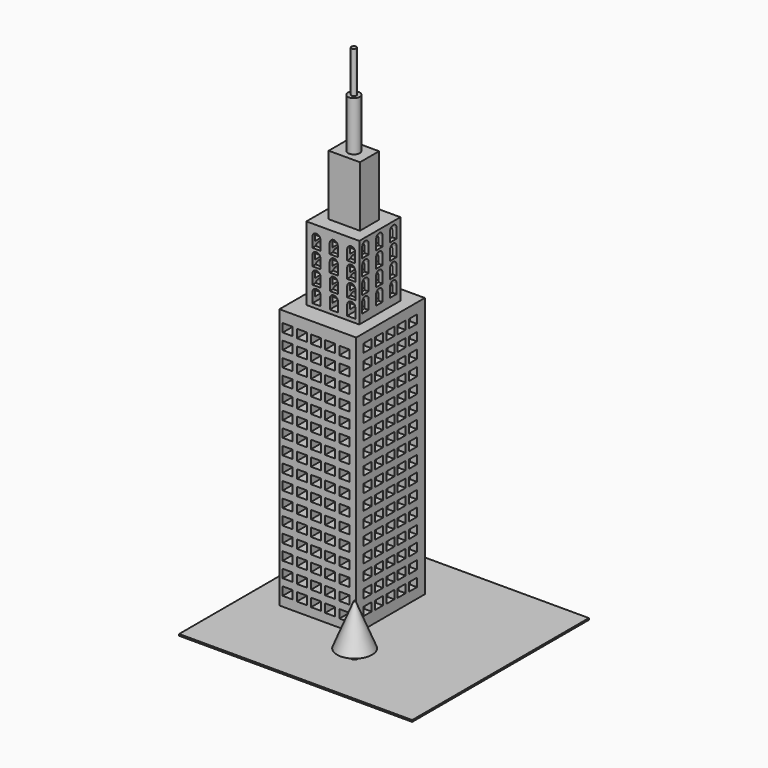
from build123d import *

# Parameters (mm, degrees)
F0_W      = 140.2568817139
F0_H      = 132.922179997
F1_DEPTH  = 1
F2_W      = 46.1832126603
F2_H      = 51.6020301729
F3_DEPTH  = 157
F4_W      = 31.817398034
F4_H      = 30.9539996088
F5_DEPTH  = 44.3
F6_W      = 18.8158005476
F6_H      = 14.3754296005
F7_DEPTH  = 36.3
F8_R      = 3.5628064539
F9_DEPTH  = 29.8
F10_R     = 1.4690776592
F11_DEPTH = 25
F12_W     = 5.9528779238
F12_H     = 5.0370548852
F13_DEPTH = 103.6402338574
F14_W     = 5.9528779238
F14_H     = 5.0370548852
F15_DEPTH = 121.5073966811
F17_DEPTH = 69.6478502283
F19_DEPTH = 114.2883801291
F20_R     = 1.9693223459
F21_DEPTH = 5
F22_R     = 10.5535773534
F23_DEPTH = 25
F23_TAPER = 22


with BuildPart() as f1:
    # F0 (on Top) → F1 (new body)
    with BuildSketch(Plane.XY):
        with Locations((-1.2246519327, 3.1857602298)):
            Rectangle(F0_W, F0_H)
    extrude(amount=F1_DEPTH)

    # F2 (on face) → F3 (join)
    with BuildSketch(Plane.XY.offset(1)):
        with Locations((-29.5110014267, 14.5628890023)):
            Rectangle(F2_W, F2_H)
    extrude(amount=F3_DEPTH)

    # F4 (on face) → F5 (join)
    with BuildSketch(Plane.XY.offset(158)):
        with Locations((-29.4748921879, 15.4769998044)):
            Rectangle(F4_W, F4_H)
    extrude(amount=F5_DEPTH)

    # F6 (on face) → F7 (join)
    with BuildSketch(Plane.XY.offset(202.3)):
        with Locations((-29.1762724519, 15.460183844)):
            Rectangle(F6_W, F6_H)
    extrude(amount=F7_DEPTH)

    # F8 (on face) → F9 (join)
    with BuildSketch(Plane.XY.offset(238.6)):
        with Locations((-29.1762724519, 15.460183844)):
            Circle(F8_R)
    extrude(amount=F9_DEPTH)

    # F10 (on face) → F11 (join)
    with BuildSketch(Plane.XY.offset(268.4)):
        with Locations((-29.1762724519, 15.460183844)):
            Circle(F10_R)
    extrude(amount=F11_DEPTH)

    # F12 (on face) → F13 (cut, through all)
    with BuildSketch(Plane(origin=(0, 40.3639040887, 0), x_dir=(-1, 0, 0), z_dir=(0, 1, 0))):
        with Locations((13.5474717245, 8.346992312)):
            Rectangle(F12_W, F12_H)
        with Locations((13.5474717245, 17.646992312)):
            Rectangle(F12_W, F12_H)
        with Locations((13.5474717245, 26.946992312)):
            Rectangle(F12_W, F12_H)
        with Locations((13.5474717245, 36.246992312)):
            Rectangle(F12_W, F12_H)
        with Locations((13.5474717245, 45.546992312)):
            Rectangle(F12_W, F12_H)
        with Locations((13.5474717245, 54.846992312)):
            Rectangle(F12_W, F12_H)
        with Locations((13.5474717245, 64.146992312)):
            Rectangle(F12_W, F12_H)
        with Locations((13.5474717245, 73.446992312)):
            Rectangle(F12_W, F12_H)
        with Locations((13.5474717245, 82.746992312)):
            Rectangle(F12_W, F12_H)
        with Locations((13.5474717245, 92.046992312)):
            Rectangle(F12_W, F12_H)
        with Locations((22.0764389619, 8.5814725574)):
            Rectangle(F12_W, F12_H)
        with Locations((22.0764389619, 17.8814725574)):
            Rectangle(F12_W, F12_H)
        with Locations((22.0764389619, 27.1814725574)):
            Rectangle(F12_W, F12_H)
        with Locations((22.0764389619, 36.4814725574)):
            Rectangle(F12_W, F12_H)
        with Locations((22.0764389619, 45.7814725574)):
            Rectangle(F12_W, F12_H)
        with Locations((22.0764389619, 55.0814725574)):
            Rectangle(F12_W, F12_H)
        with Locations((22.0764389619, 64.3814725574)):
            Rectangle(F12_W, F12_H)
        with Locations((22.0764389619, 73.6814725574)):
            Rectangle(F12_W, F12_H)
        with Locations((22.0764389619, 82.9814725574)):
            Rectangle(F12_W, F12_H)
        with Locations((22.0764389619, 92.2814725574)):
            Rectangle(F12_W, F12_H)
        with Locations((30.6054061994, 8.8159528028)):
            Rectangle(F12_W, F12_H)
        with Locations((30.6054061994, 18.1159528028)):
            Rectangle(F12_W, F12_H)
        with Locations((30.6054061994, 27.4159528028)):
            Rectangle(F12_W, F12_H)
        with Locations((30.6054061994, 36.7159528028)):
            Rectangle(F12_W, F12_H)
        with Locations((30.6054061994, 46.0159528028)):
            Rectangle(F12_W, F12_H)
        with Locations((30.6054061994, 55.3159528028)):
            Rectangle(F12_W, F12_H)
        with Locations((30.6054061994, 64.6159528028)):
            Rectangle(F12_W, F12_H)
        with Locations((30.6054061994, 73.9159528028)):
            Rectangle(F12_W, F12_H)
        with Locations((30.6054061994, 83.2159528028)):
            Rectangle(F12_W, F12_H)
        with Locations((30.6054061994, 92.5159528028)):
            Rectangle(F12_W, F12_H)
        with Locations((39.1343734369, 9.0504330482)):
            Rectangle(F12_W, F12_H)
        with Locations((39.1343734369, 18.3504330482)):
            Rectangle(F12_W, F12_H)
        with Locations((39.1343734369, 27.6504330482)):
            Rectangle(F12_W, F12_H)
        with Locations((39.1343734369, 36.9504330482)):
            Rectangle(F12_W, F12_H)
        with Locations((39.1343734369, 46.2504330482)):
            Rectangle(F12_W, F12_H)
        with Locations((39.1343734369, 55.5504330482)):
            Rectangle(F12_W, F12_H)
        with Locations((39.1343734369, 64.8504330482)):
            Rectangle(F12_W, F12_H)
        with Locations((39.1343734369, 74.1504330482)):
            Rectangle(F12_W, F12_H)
        with Locations((39.1343734369, 83.4504330482)):
            Rectangle(F12_W, F12_H)
        with Locations((39.1343734369, 92.7504330482)):
            Rectangle(F12_W, F12_H)
        with Locations((47.6633406743, 9.2849132936)):
            Rectangle(F12_W, F12_H)
        with Locations((47.6633406743, 18.5849132936)):
            Rectangle(F12_W, F12_H)
        with Locations((47.6633406743, 27.8849132936)):
            Rectangle(F12_W, F12_H)
        with Locations((47.6633406743, 37.1849132936)):
            Rectangle(F12_W, F12_H)
        with Locations((47.6633406743, 46.4849132936)):
            Rectangle(F12_W, F12_H)
        with Locations((47.6633406743, 55.7849132936)):
            Rectangle(F12_W, F12_H)
        with Locations((47.6633406743, 65.0849132936)):
            Rectangle(F12_W, F12_H)
        with Locations((47.6633406743, 74.3849132936)):
            Rectangle(F12_W, F12_H)
        with Locations((47.6633406743, 83.6849132936)):
            Rectangle(F12_W, F12_H)
        with Locations((47.6633406743, 92.9849132936)):
            Rectangle(F12_W, F12_H)
        with Locations((13.5474717245, 101.346992312)):
            Rectangle(F12_W, F12_H)
        with Locations((13.5474717245, 110.646992312)):
            Rectangle(F12_W, F12_H)
        with Locations((13.5474717245, 119.946992312)):
            Rectangle(F12_W, F12_H)
        with Locations((13.5474717245, 129.246992312)):
            Rectangle(F12_W, F12_H)
        with Locations((13.5474717245, 138.546992312)):
            Rectangle(F12_W, F12_H)
        with Locations((22.0764389619, 101.5814725574)):
            Rectangle(F12_W, F12_H)
        with Locations((22.0764389619, 110.8814725574)):
            Rectangle(F12_W, F12_H)
        with Locations((22.0764389619, 120.1814725574)):
            Rectangle(F12_W, F12_H)
        with Locations((22.0764389619, 129.4814725574)):
            Rectangle(F12_W, F12_H)
        with Locations((22.0764389619, 138.7814725574)):
            Rectangle(F12_W, F12_H)
        with Locations((30.6054061994, 101.8159528028)):
            Rectangle(F12_W, F12_H)
        with Locations((30.6054061994, 111.1159528028)):
            Rectangle(F12_W, F12_H)
        with Locations((30.6054061994, 120.4159528028)):
            Rectangle(F12_W, F12_H)
        with Locations((30.6054061994, 129.7159528028)):
            Rectangle(F12_W, F12_H)
        with Locations((30.6054061994, 139.0159528028)):
            Rectangle(F12_W, F12_H)
        with Locations((39.1343734369, 102.0504330482)):
            Rectangle(F12_W, F12_H)
        with Locations((39.1343734369, 111.3504330482)):
            Rectangle(F12_W, F12_H)
        with Locations((39.1343734369, 120.6504330482)):
            Rectangle(F12_W, F12_H)
        with Locations((39.1343734369, 129.9504330482)):
            Rectangle(F12_W, F12_H)
        with Locations((39.1343734369, 139.2504330482)):
            Rectangle(F12_W, F12_H)
        with Locations((47.6633406743, 102.2849132936)):
            Rectangle(F12_W, F12_H)
        with Locations((47.6633406743, 111.5849132936)):
            Rectangle(F12_W, F12_H)
        with Locations((47.6633406743, 120.8849132936)):
            Rectangle(F12_W, F12_H)
        with Locations((47.6633406743, 130.1849132936)):
            Rectangle(F12_W, F12_H)
        with Locations((47.6633406743, 139.4849132936)):
            Rectangle(F12_W, F12_H)
        with Locations((13.5474717245, 147.846992312)):
            Rectangle(F12_W, F12_H)
        with Locations((22.0764389619, 148.0814725574)):
            Rectangle(F12_W, F12_H)
        with Locations((30.6054061994, 148.3159528028)):
            Rectangle(F12_W, F12_H)
        with Locations((39.1343734369, 148.5504330482)):
            Rectangle(F12_W, F12_H)
        with Locations((47.6633406743, 148.7849132936)):
            Rectangle(F12_W, F12_H)
    extrude(amount=-F13_DEPTH, mode=Mode.SUBTRACT)

    # F14 (on face) → F15 (cut, through all)
    with BuildSketch(Plane(origin=(-52.6026077569, 0, 0), x_dir=(0, -1, 0), z_dir=(-1, 0, 0))):
        with Locations((-31.5096301131, 9.6867339998)):
            Rectangle(F14_W, F14_H)
        with Locations((-31.5096301131, 18.9867339998)):
            Rectangle(F14_W, F14_H)
        with Locations((-31.5096301131, 28.2867339998)):
            Rectangle(F14_W, F14_H)
        with Locations((-31.5096301131, 37.5867339998)):
            Rectangle(F14_W, F14_H)
        with Locations((-31.5096301131, 46.8867339998)):
            Rectangle(F14_W, F14_H)
        with Locations((-31.5096301131, 56.1867339998)):
            Rectangle(F14_W, F14_H)
        with Locations((-31.5096301131, 65.4867339998)):
            Rectangle(F14_W, F14_H)
        with Locations((-31.5096301131, 74.7867339998)):
            Rectangle(F14_W, F14_H)
        with Locations((-31.5096301131, 84.0867339998)):
            Rectangle(F14_W, F14_H)
        with Locations((-31.5096301131, 93.3867339998)):
            Rectangle(F14_W, F14_H)
        with Locations((-22.9806628756, 9.9212142452)):
            Rectangle(F14_W, F14_H)
        with Locations((-22.9806628756, 19.2212142452)):
            Rectangle(F14_W, F14_H)
        with Locations((-22.9806628756, 28.5212142452)):
            Rectangle(F14_W, F14_H)
        with Locations((-22.9806628756, 37.8212142452)):
            Rectangle(F14_W, F14_H)
        with Locations((-22.9806628756, 47.1212142452)):
            Rectangle(F14_W, F14_H)
        with Locations((-22.9806628756, 56.4212142452)):
            Rectangle(F14_W, F14_H)
        with Locations((-22.9806628756, 65.7212142452)):
            Rectangle(F14_W, F14_H)
        with Locations((-22.9806628756, 75.0212142452)):
            Rectangle(F14_W, F14_H)
        with Locations((-22.9806628756, 84.3212142452)):
            Rectangle(F14_W, F14_H)
        with Locations((-22.9806628756, 93.6212142452)):
            Rectangle(F14_W, F14_H)
        with Locations((-14.4516956381, 10.1556944906)):
            Rectangle(F14_W, F14_H)
        with Locations((-14.4516956381, 19.4556944906)):
            Rectangle(F14_W, F14_H)
        with Locations((-14.4516956381, 28.7556944906)):
            Rectangle(F14_W, F14_H)
        with Locations((-14.4516956381, 38.0556944906)):
            Rectangle(F14_W, F14_H)
        with Locations((-14.4516956381, 47.3556944906)):
            Rectangle(F14_W, F14_H)
        with Locations((-14.4516956381, 56.6556944906)):
            Rectangle(F14_W, F14_H)
        with Locations((-14.4516956381, 65.9556944906)):
            Rectangle(F14_W, F14_H)
        with Locations((-14.4516956381, 75.2556944906)):
            Rectangle(F14_W, F14_H)
        with Locations((-14.4516956381, 84.5556944906)):
            Rectangle(F14_W, F14_H)
        with Locations((-14.4516956381, 93.8556944906)):
            Rectangle(F14_W, F14_H)
        with Locations((-5.9227284006, 10.390174736)):
            Rectangle(F14_W, F14_H)
        with Locations((-5.9227284006, 19.690174736)):
            Rectangle(F14_W, F14_H)
        with Locations((-5.9227284006, 28.990174736)):
            Rectangle(F14_W, F14_H)
        with Locations((-5.9227284006, 38.290174736)):
            Rectangle(F14_W, F14_H)
        with Locations((-5.9227284006, 47.590174736)):
            Rectangle(F14_W, F14_H)
        with Locations((-5.9227284006, 56.890174736)):
            Rectangle(F14_W, F14_H)
        with Locations((-5.9227284006, 66.190174736)):
            Rectangle(F14_W, F14_H)
        with Locations((-5.9227284006, 75.490174736)):
            Rectangle(F14_W, F14_H)
        with Locations((-5.9227284006, 84.790174736)):
            Rectangle(F14_W, F14_H)
        with Locations((-5.9227284006, 94.090174736)):
            Rectangle(F14_W, F14_H)
        with Locations((2.6062388368, 10.6246549814)):
            Rectangle(F14_W, F14_H)
        with Locations((2.6062388368, 19.9246549814)):
            Rectangle(F14_W, F14_H)
        with Locations((2.6062388368, 29.2246549814)):
            Rectangle(F14_W, F14_H)
        with Locations((2.6062388368, 38.5246549814)):
            Rectangle(F14_W, F14_H)
        with Locations((2.6062388368, 47.8246549814)):
            Rectangle(F14_W, F14_H)
        with Locations((2.6062388368, 57.1246549814)):
            Rectangle(F14_W, F14_H)
        with Locations((2.6062388368, 66.4246549814)):
            Rectangle(F14_W, F14_H)
        with Locations((2.6062388368, 75.7246549814)):
            Rectangle(F14_W, F14_H)
        with Locations((2.6062388368, 85.0246549814)):
            Rectangle(F14_W, F14_H)
        with Locations((2.6062388368, 94.3246549814)):
            Rectangle(F14_W, F14_H)
        with Locations((-31.5096301131, 102.6867339998)):
            Rectangle(F14_W, F14_H)
        with Locations((-31.5096301131, 111.9867339998)):
            Rectangle(F14_W, F14_H)
        with Locations((-31.5096301131, 121.2867339998)):
            Rectangle(F14_W, F14_H)
        with Locations((-31.5096301131, 130.5867339998)):
            Rectangle(F14_W, F14_H)
        with Locations((-31.5096301131, 139.8867339998)):
            Rectangle(F14_W, F14_H)
        with Locations((-22.9806628756, 102.9212142452)):
            Rectangle(F14_W, F14_H)
        with Locations((-22.9806628756, 112.2212142452)):
            Rectangle(F14_W, F14_H)
        with Locations((-22.9806628756, 121.5212142452)):
            Rectangle(F14_W, F14_H)
        with Locations((-22.9806628756, 130.8212142452)):
            Rectangle(F14_W, F14_H)
        with Locations((-22.9806628756, 140.1212142452)):
            Rectangle(F14_W, F14_H)
        with Locations((-14.4516956381, 103.1556944906)):
            Rectangle(F14_W, F14_H)
        with Locations((-14.4516956381, 112.4556944906)):
            Rectangle(F14_W, F14_H)
        with Locations((-14.4516956381, 121.7556944906)):
            Rectangle(F14_W, F14_H)
        with Locations((-14.4516956381, 131.0556944906)):
            Rectangle(F14_W, F14_H)
        with Locations((-14.4516956381, 140.3556944906)):
            Rectangle(F14_W, F14_H)
        with Locations((-5.9227284006, 103.390174736)):
            Rectangle(F14_W, F14_H)
        with Locations((-5.9227284006, 112.690174736)):
            Rectangle(F14_W, F14_H)
        with Locations((-5.9227284006, 121.990174736)):
            Rectangle(F14_W, F14_H)
        with Locations((-5.9227284006, 131.290174736)):
            Rectangle(F14_W, F14_H)
        with Locations((-5.9227284006, 140.590174736)):
            Rectangle(F14_W, F14_H)
        with Locations((2.6062388368, 103.6246549814)):
            Rectangle(F14_W, F14_H)
        with Locations((2.6062388368, 112.9246549814)):
            Rectangle(F14_W, F14_H)
        with Locations((2.6062388368, 122.2246549814)):
            Rectangle(F14_W, F14_H)
        with Locations((2.6062388368, 131.5246549814)):
            Rectangle(F14_W, F14_H)
        with Locations((2.6062388368, 140.8246549814)):
            Rectangle(F14_W, F14_H)
        with Locations((-31.5096301131, 149.1867339998)):
            Rectangle(F14_W, F14_H)
        with Locations((-22.9806628756, 149.4212142452)):
            Rectangle(F14_W, F14_H)
        with Locations((-14.4516956381, 149.6556944906)):
            Rectangle(F14_W, F14_H)
        with Locations((-5.9227284006, 149.890174736)):
            Rectangle(F14_W, F14_H)
        with Locations((2.6062388368, 150.1246549814)):
            Rectangle(F14_W, F14_H)
    extrude(amount=-F15_DEPTH, mode=Mode.SUBTRACT)

    # F16 (on face) → F17 (cut, through all)
    with BuildSketch(Plane.XZ):
        with BuildLine():
            Line((-41.7843908072, 165.9939885139), (-41.7843908072, 160.1237803698))
            Line((-41.7843908072, 160.1237803698), (-36.914780736, 160.1237803698))
            Line((-36.914780736, 160.1237803698), (-36.914780736, 165.9939885139))
            ThreePointArc((-36.914780736, 165.9939885139), (-39.3495857716, 168.4287935495), (-41.7843908072, 165.9939885139))
        make_face()
        with BuildLine():
            Line((-41.8, 175.7702081442), (-41.8, 169.9))
            Line((-41.8, 169.9), (-36.9303899288, 169.9))
            Line((-36.9303899288, 169.9), (-36.9303899288, 175.7702081442))
            ThreePointArc((-36.9303899288, 175.7702081442), (-39.3651949644, 178.2050131798), (-41.8, 175.7702081442))
        make_face()
        with BuildLine():
            Line((-41.8156091928, 185.5464277744), (-41.8156091928, 179.6762196302))
            Line((-41.8156091928, 179.6762196302), (-36.9459991217, 179.6762196302))
            Line((-36.9459991217, 179.6762196302), (-36.9459991217, 185.5464277744))
            ThreePointArc((-36.9459991217, 185.5464277744), (-39.3808041573, 187.98123281), (-41.8156091928, 185.5464277744))
        make_face()
        with BuildLine():
            Line((-41.8312183857, 195.3226474047), (-41.8312183857, 189.4524392605))
            Line((-41.8312183857, 189.4524392605), (-36.9616083145, 189.4524392605))
            Line((-36.9616083145, 189.4524392605), (-36.9616083145, 195.3226474047))
            ThreePointArc((-36.9616083145, 195.3226474047), (-39.3964133501, 197.7574524403), (-41.8312183857, 195.3226474047))
        make_face()
        with BuildLine():
            Line((-31.3, 166.0702081442), (-31.3, 160.2))
            Line((-31.3, 160.2), (-26.4303899288, 160.2))
            Line((-26.4303899288, 160.2), (-26.4303899288, 166.0702081442))
            ThreePointArc((-26.4303899288, 166.0702081442), (-28.8651949644, 168.5050131798), (-31.3, 166.0702081442))
        make_face()
        with BuildLine():
            Line((-31.3156091928, 175.8464277744), (-31.3156091928, 169.9762196302))
            Line((-31.3156091928, 169.9762196302), (-26.4459991217, 169.9762196302))
            Line((-26.4459991217, 169.9762196302), (-26.4459991217, 175.8464277744))
            ThreePointArc((-26.4459991217, 175.8464277744), (-28.8808041573, 178.28123281), (-31.3156091928, 175.8464277744))
        make_face()
        with BuildLine():
            Line((-31.3312183857, 185.6226474047), (-31.3312183857, 179.7524392605))
            Line((-31.3312183857, 179.7524392605), (-26.4616083145, 179.7524392605))
            Line((-26.4616083145, 179.7524392605), (-26.4616083145, 185.6226474047))
            ThreePointArc((-26.4616083145, 185.6226474047), (-28.8964133501, 188.0574524403), (-31.3312183857, 185.6226474047))
        make_face()
        with BuildLine():
            Line((-31.3468275785, 195.3988670349), (-31.3468275785, 189.5286588907))
            Line((-31.3468275785, 189.5286588907), (-26.4772175074, 189.5286588907))
            Line((-26.4772175074, 189.5286588907), (-26.4772175074, 195.3988670349))
            ThreePointArc((-26.4772175074, 195.3988670349), (-28.912022543, 197.8336720705), (-31.3468275785, 195.3988670349))
        make_face()
        with BuildLine():
            Line((-20.8156091928, 166.1464277744), (-20.8156091928, 160.2762196302))
            Line((-20.8156091928, 160.2762196302), (-15.9459991217, 160.2762196302))
            Line((-15.9459991217, 160.2762196302), (-15.9459991217, 166.1464277744))
            ThreePointArc((-15.9459991217, 166.1464277744), (-18.3808041573, 168.58123281), (-20.8156091928, 166.1464277744))
        make_face()
        with BuildLine():
            Line((-20.8312183857, 175.9226474047), (-20.8312183857, 170.0524392605))
            Line((-20.8312183857, 170.0524392605), (-15.9616083145, 170.0524392605))
            Line((-15.9616083145, 170.0524392605), (-15.9616083145, 175.9226474047))
            ThreePointArc((-15.9616083145, 175.9226474047), (-18.3964133501, 178.3574524403), (-20.8312183857, 175.9226474047))
        make_face()
        with BuildLine():
            Line((-20.8468275785, 185.6988670349), (-20.8468275785, 179.8286588907))
            Line((-20.8468275785, 179.8286588907), (-15.9772175074, 179.8286588907))
            Line((-15.9772175074, 179.8286588907), (-15.9772175074, 185.6988670349))
            ThreePointArc((-15.9772175074, 185.6988670349), (-18.412022543, 188.1336720705), (-20.8468275785, 185.6988670349))
        make_face()
        with BuildLine():
            Line((-20.8624367714, 195.4750866652), (-20.8624367714, 189.604878521))
            Line((-20.8624367714, 189.604878521), (-15.9928267002, 189.604878521))
            Line((-15.9928267002, 189.604878521), (-15.9928267002, 195.4750866652))
            ThreePointArc((-15.9928267002, 195.4750866652), (-18.4276317358, 197.9098917007), (-20.8624367714, 195.4750866652))
        make_face()
    extrude(amount=-F17_DEPTH, mode=Mode.SUBTRACT)

    # F18 (on face) → F19 (cut, through all)
    with BuildSketch(Plane(origin=(-45.3835912049, 0, 0), x_dir=(0, -1, 0), z_dir=(-1, 0, 0))):
        with BuildLine():
            Line((-27.9616383919, 168.5810459232), (-27.9616383919, 162.710837779))
            Line((-27.9616383919, 162.710837779), (-23.0920283207, 162.710837779))
            Line((-23.0920283207, 162.710837779), (-23.0920283207, 168.5810459232))
            ThreePointArc((-23.0920283207, 168.5810459232), (-25.5268333563, 171.0158509588), (-27.9616383919, 168.5810459232))
        make_face()
        with BuildLine():
            Line((-27.9772475847, 178.3572655534), (-27.9772475847, 172.4870574092))
            Line((-27.9772475847, 172.4870574092), (-23.1076375135, 172.4870574092))
            Line((-23.1076375135, 172.4870574092), (-23.1076375135, 178.3572655534))
            ThreePointArc((-23.1076375135, 178.3572655534), (-25.5424425491, 180.792070589), (-27.9772475847, 178.3572655534))
        make_face()
        with BuildLine():
            Line((-27.9928567775, 188.1334851837), (-27.9928567775, 182.2632770395))
            Line((-27.9928567775, 182.2632770395), (-23.1232467064, 182.2632770395))
            Line((-23.1232467064, 182.2632770395), (-23.1232467064, 188.1334851837))
            ThreePointArc((-23.1232467064, 188.1334851837), (-25.558051742, 190.5682902193), (-27.9928567775, 188.1334851837))
        make_face()
        with BuildLine():
            Line((-28.0084659704, 197.9097048139), (-28.0084659704, 192.0394966697))
            Line((-28.0084659704, 192.0394966697), (-23.1388558992, 192.0394966697))
            Line((-23.1388558992, 192.0394966697), (-23.1388558992, 197.9097048139))
            ThreePointArc((-23.1388558992, 197.9097048139), (-25.5736609348, 200.3445098495), (-28.0084659704, 197.9097048139))
        make_face()
        with BuildLine():
            Line((-17.4772475847, 168.6572655534), (-17.4772475847, 162.7870574092))
            Line((-17.4772475847, 162.7870574092), (-12.6076375135, 162.7870574092))
            Line((-12.6076375135, 162.7870574092), (-12.6076375135, 168.6572655534))
            ThreePointArc((-12.6076375135, 168.6572655534), (-15.0424425491, 171.092070589), (-17.4772475847, 168.6572655534))
        make_face()
        with BuildLine():
            Line((-17.4928567775, 178.4334851837), (-17.4928567775, 172.5632770395))
            Line((-17.4928567775, 172.5632770395), (-12.6232467064, 172.5632770395))
            Line((-12.6232467064, 172.5632770395), (-12.6232467064, 178.4334851837))
            ThreePointArc((-12.6232467064, 178.4334851837), (-15.058051742, 180.8682902193), (-17.4928567775, 178.4334851837))
        make_face()
        with BuildLine():
            Line((-17.5084659704, 188.2097048139), (-17.5084659704, 182.3394966697))
            Line((-17.5084659704, 182.3394966697), (-12.6388558992, 182.3394966697))
            Line((-12.6388558992, 182.3394966697), (-12.6388558992, 188.2097048139))
            ThreePointArc((-12.6388558992, 188.2097048139), (-15.0736609348, 190.6445098495), (-17.5084659704, 188.2097048139))
        make_face()
        with BuildLine():
            Line((-17.5240751632, 197.9859244442), (-17.5240751632, 192.1157163))
            Line((-17.5240751632, 192.1157163), (-12.6544650921, 192.1157163))
            Line((-12.6544650921, 192.1157163), (-12.6544650921, 197.9859244442))
            ThreePointArc((-12.6544650921, 197.9859244442), (-15.0892701277, 200.4207294797), (-17.5240751632, 197.9859244442))
        make_face()
        with BuildLine():
            Line((-6.9928567775, 168.7334851837), (-6.9928567775, 162.8632770395))
            Line((-6.9928567775, 162.8632770395), (-2.1232467064, 162.8632770395))
            Line((-2.1232467064, 162.8632770395), (-2.1232467064, 168.7334851837))
            ThreePointArc((-2.1232467064, 168.7334851837), (-4.558051742, 171.1682902193), (-6.9928567775, 168.7334851837))
        make_face()
        with BuildLine():
            Line((-7.0084659704, 178.5097048139), (-7.0084659704, 172.6394966697))
            Line((-7.0084659704, 172.6394966697), (-2.1388558992, 172.6394966697))
            Line((-2.1388558992, 172.6394966697), (-2.1388558992, 178.5097048139))
            ThreePointArc((-2.1388558992, 178.5097048139), (-4.5736609348, 180.9445098495), (-7.0084659704, 178.5097048139))
        make_face()
        with BuildLine():
            Line((-7.0240751632, 188.2859244442), (-7.0240751632, 182.4157163))
            Line((-7.0240751632, 182.4157163), (-2.1544650921, 182.4157163))
            Line((-2.1544650921, 182.4157163), (-2.1544650921, 188.2859244442))
            ThreePointArc((-2.1544650921, 188.2859244442), (-4.5892701277, 190.7207294797), (-7.0240751632, 188.2859244442))
        make_face()
        with BuildLine():
            Line((-7.0396843561, 198.0621440744), (-7.0396843561, 192.1919359302))
            Line((-7.0396843561, 192.1919359302), (-2.1700742849, 192.1919359302))
            Line((-2.1700742849, 192.1919359302), (-2.1700742849, 198.0621440744))
            ThreePointArc((-2.1700742849, 198.0621440744), (-4.6048793205, 200.49694911), (-7.0396843561, 198.0621440744))
        make_face()
    extrude(amount=-F19_DEPTH, mode=Mode.SUBTRACT)

    # F20 (on face) → F21 (join)
    with BuildSketch(Plane.XY.offset(1)):
        with Locations((8.1788813695, -30.6610800326)):
            Circle(F20_R)
    extrude(amount=F21_DEPTH)

    # F22 (on face) → F23 (join)
    with BuildSketch(Plane.XY.offset(6)):
        with Locations((8.1788813695, -30.6610800326)):
            Circle(F22_R)
    extrude(amount=F23_DEPTH, taper=F23_TAPER)


solid = f1.part
